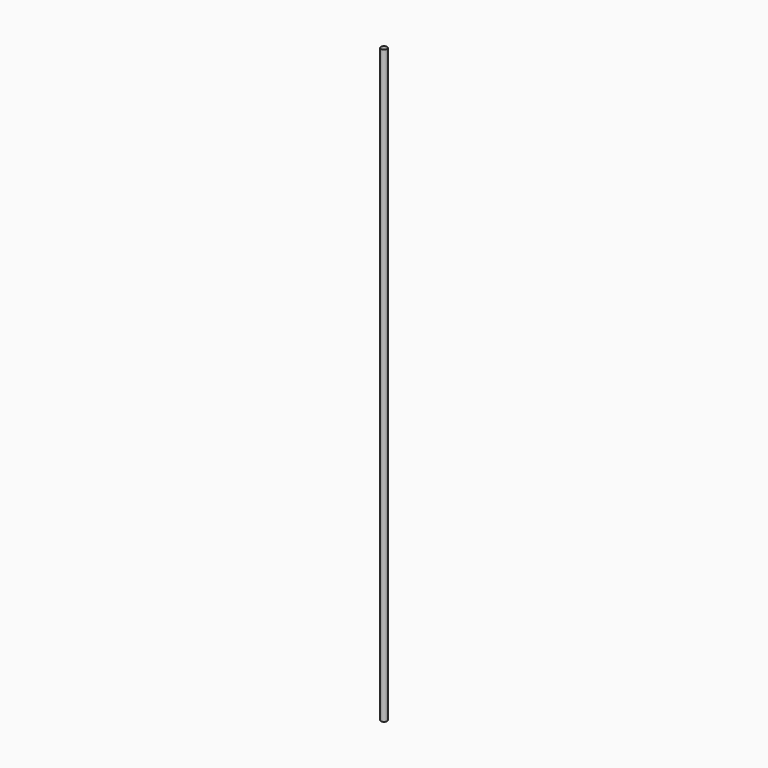
from build123d import *

# Parameters (mm, degrees)
CYLINDER_R     = 4
CYLINDER_DEPTH = 775


with BuildPart() as part:
    # Cylinder → Cylinder (new body)
    with BuildSketch(Plane.XY):
        Circle(CYLINDER_R)
    extrude(amount=CYLINDER_DEPTH)


solid = part.part
